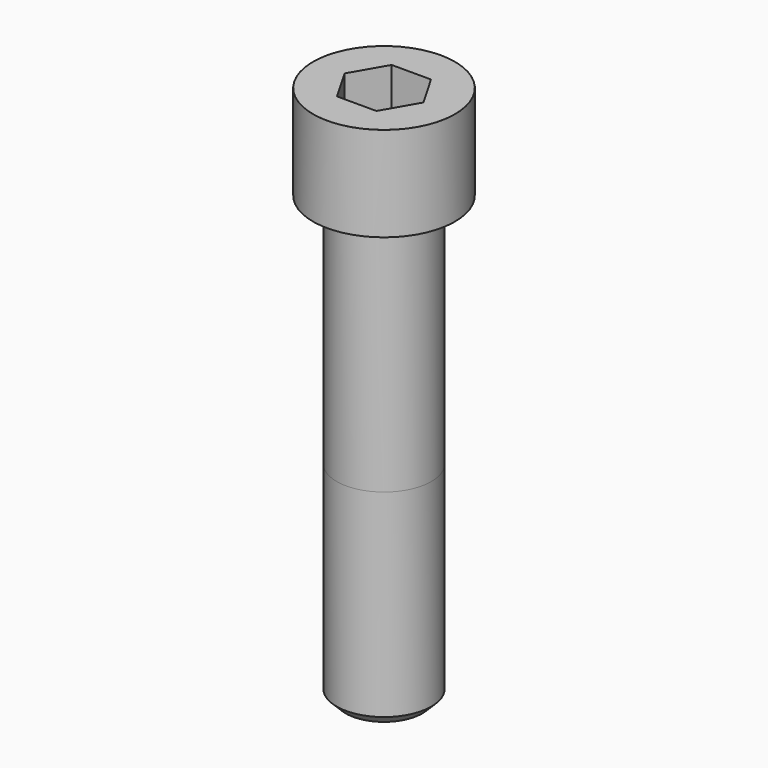
from build123d import *

# Parameters (mm, degrees)
POCKET_DEPTH = 46.15


with BuildPart() as part:
    # Sketch → Revolve (revolve)
    with BuildSketch(Plane.YZ):
        with BuildLine():
            Line((31.999, 0), (48, 0))
            Line((48, 0), (48, 63.97229))
            ThreePointArc((48, 63.97229), (47.991884, 63.991884), (47.97229, 64))
            Line((47.97229, 64), (0, 64))
            Line((0, -300), (0, 64))
            Line((26, -300), (0, -300))
            Line((32, -294), (26, -300))
            Line((32, -160), (32, -294))
            Line((31.999, 0), (32, -160))
        make_face()
    revolve(axis=Axis((0, 0, 0), (0, 0, 1)))

    # Sketch001 → Pocket (cut)
    with BuildSketch(Plane.XY.offset(64)):
        Polygon((26.644715, 0), (13.322357, 23.075), (-13.322357, 23.075), (-26.644715, 0), (-13.322357, -23.075), (13.322357, -23.075), align=None)
    extrude(amount=-POCKET_DEPTH, mode=Mode.SUBTRACT)


solid = part.part
